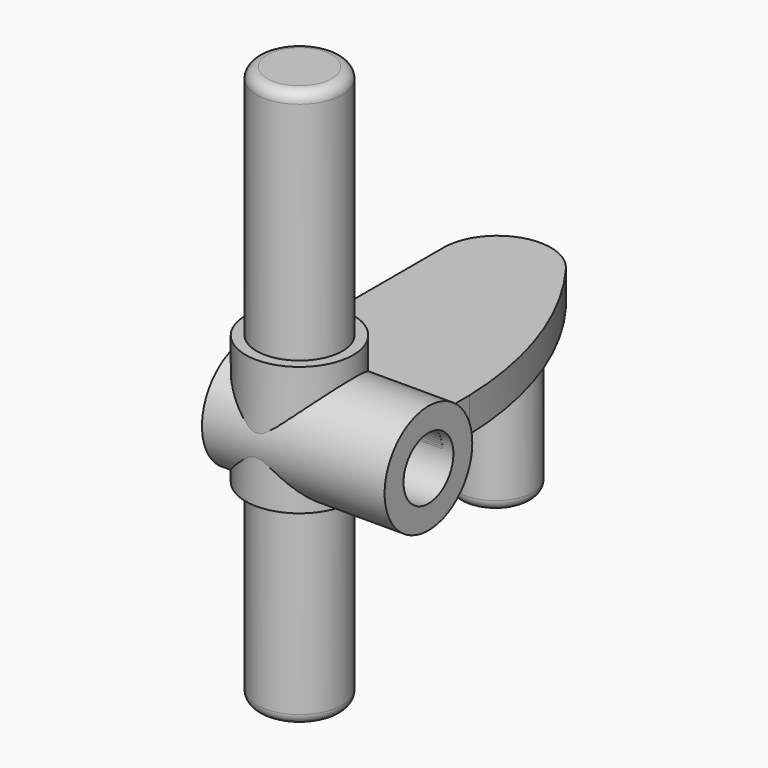
from build123d import *

# Parameters (mm, degrees)
F0_R           = 2.55
F1_DEPTH       = 8.5
F3_DEPTH       = 1.6
F4_DEPTH       = 1.6
F5_R           = 1.75
F6_DEPTH       = 7.5
F7_R           = 2.5
F8_DEPTH       = 3.5
F8_DEPTH_BACK  = 2.5
F9_R           = 2
F10_DEPTH      = 14.5
F10_DEPTH_BACK = 11.5
F11_D          = 2.9
F11_2_D        = 2.9
F11_3_D        = 2.9
F11_4_D        = 2.9
F11_5_D        = 2.9
F12_R          = 0.5
F12_2_R        = 0.5


with BuildPart() as f1:
    # F0 (on Right) → F1 (new body)
    with BuildSketch(Plane.YZ):
        Circle(F0_R)
    extrude(amount=F1_DEPTH)

    # F11 (through all)
    with Locations(Plane(origin=(0, 0, 0), x_dir=(0, 1, 0), z_dir=(-1, 0, 0))):
        with Locations((0, 0)):
            Hole(F11_D / 2)


with BuildPart() as f3:
    # F2 (on Top) → F3 (new body)
    with BuildSketch(Plane.XY):
        with BuildLine():
            Line((0, 11.5), (0, 0))
            Line((0, 0), (8, 0))
            Line((8, 0), (8, 3))
            ThreePointArc((8, 3), (7.0231407035, 8.2705992462), (4.5, 13))
            ThreePointArc((4.5, 13), (1.709430585, 13.8717082451), (0, 11.5))
        make_face()
    extrude(amount=F3_DEPTH)

    # F11#2 (through all)
    with Locations(Plane(origin=(0, 0, 0), x_dir=(0, 1, 0), z_dir=(-1, 0, 0))):
        with Locations((0, 0)):
            Hole(F11_2_D / 2)


with BuildPart() as f4:
    # F2 (on Top) → F4 (new body)
    with BuildSketch(Plane.XY):
        with BuildLine():
            Line((0, 11.5), (0, 0))
            Line((0, 0), (8, 0))
            Line((8, 0), (8, 3))
            ThreePointArc((8, 3), (7.0231407035, 8.2705992462), (4.5, 13))
            ThreePointArc((4.5, 13), (1.709430585, 13.8717082451), (0, 11.5))
        make_face()
    extrude(amount=F4_DEPTH)

    # F11#3 (through all)
    with Locations(Plane(origin=(0, 0, 0), x_dir=(0, 1, 0), z_dir=(-1, 0, 0))):
        with Locations((0, 0)):
            Hole(F11_3_D / 2)


with BuildPart() as f6:
    # F5 (on Top) → F6 (new body)
    with BuildSketch(Plane.XY):
        with Locations((2.5, 11.4)):
            Circle(F5_R)
    extrude(amount=-F6_DEPTH)

    # F12#2
    f12_2_edges = [f6.edges().sort_by_distance(p)[0] for p in [
        (0.75, 11.4, -7.5),
    ]]
    fillet(f12_2_edges, radius=F12_2_R)


with BuildPart() as f8:
    # F7 (on Top) → F8 (new body, two sides)
    with BuildSketch(Plane.XY) as f8_sk:
        with Locations((2.5, 0)):
            Circle(F7_R)
    extrude(amount=F8_DEPTH)
    extrude(f8_sk.sketch, amount=-F8_DEPTH_BACK)

    # F11#4 (through all)
    with Locations(Plane(origin=(0, 0, 0), x_dir=(0, 1, 0), z_dir=(-1, 0, 0))):
        with Locations((0, 0)):
            Hole(F11_4_D / 2)


with BuildPart() as f10:
    # F9 (on Top) → F10 (new body, two sides)
    with BuildSketch(Plane.XY) as f10_sk:
        with Locations((2.5, 0)):
            Circle(F9_R)
    extrude(amount=F10_DEPTH)
    extrude(f10_sk.sketch, amount=-F10_DEPTH_BACK)

    # F11#5 (through all)
    with Locations(Plane(origin=(0, 0, 0), x_dir=(0, 1, 0), z_dir=(-1, 0, 0))):
        with Locations((0, 0)):
            Hole(F11_5_D / 2)

    # F12
    f12_edges = [f10.edges().sort_by_distance(p)[0] for p in [
        (0.5, 0, 14.5),
        (0.5, 0, -11.5),
    ]]
    fillet(f12_edges, radius=F12_R)


solid = Compound([f1.part, f3.part, f4.part, f6.part, f8.part, f10.part])
